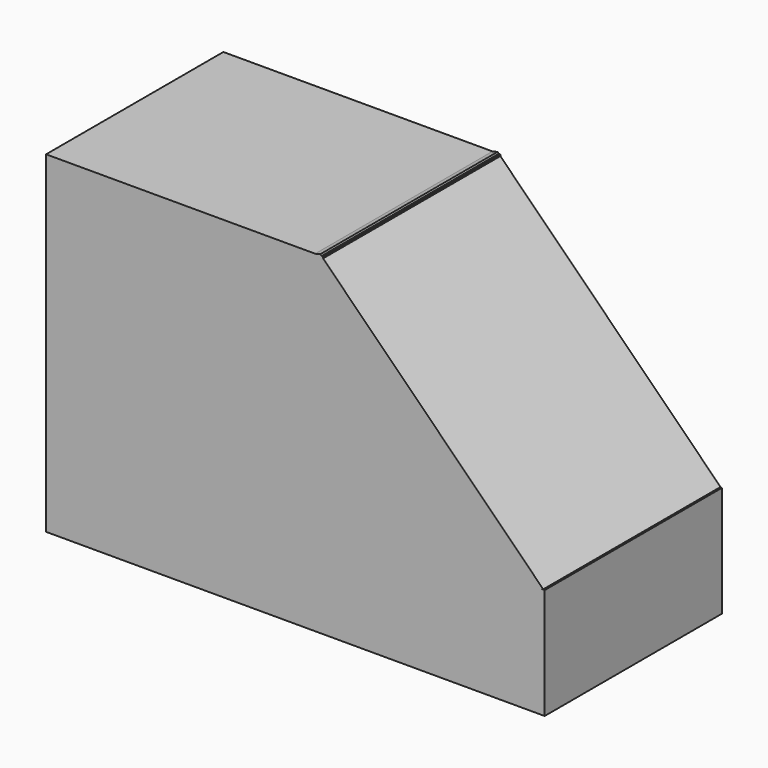
from build123d import *

# Parameters (mm, degrees)
F0_W     = 127
F0_H     = 152.4
F1_DEPTH = 101.6
F2_W     = 101.6
F2_H     = 50.8
F3_DEPTH = 101.6
F5_DEPTH = 101.6


with BuildPart() as f1:
    # F0 (on Front) → F1 (new body)
    with BuildSketch(Plane.XZ):
        with Locations((6.165242, -35.863342)):
            Rectangle(F0_W, F0_H)
    extrude(amount=F1_DEPTH)

    # F2 (on face) → F3 (join)
    with BuildSketch(Plane.YZ.offset(69.665242)):
        with Locations((-50.8, -86.663342)):
            Rectangle(F2_W, F2_H)
    extrude(amount=F3_DEPTH)

    # F4 (on Front) → F5 (join)
    with BuildSketch(Plane.XZ):
        Polygon((68.383813, 40.888175), (-30.263531, 17.656446), (67.372276, -89.133667), (170.625895, -61.112218), align=None)
    extrude(amount=F5_DEPTH)


solid = f1.part
